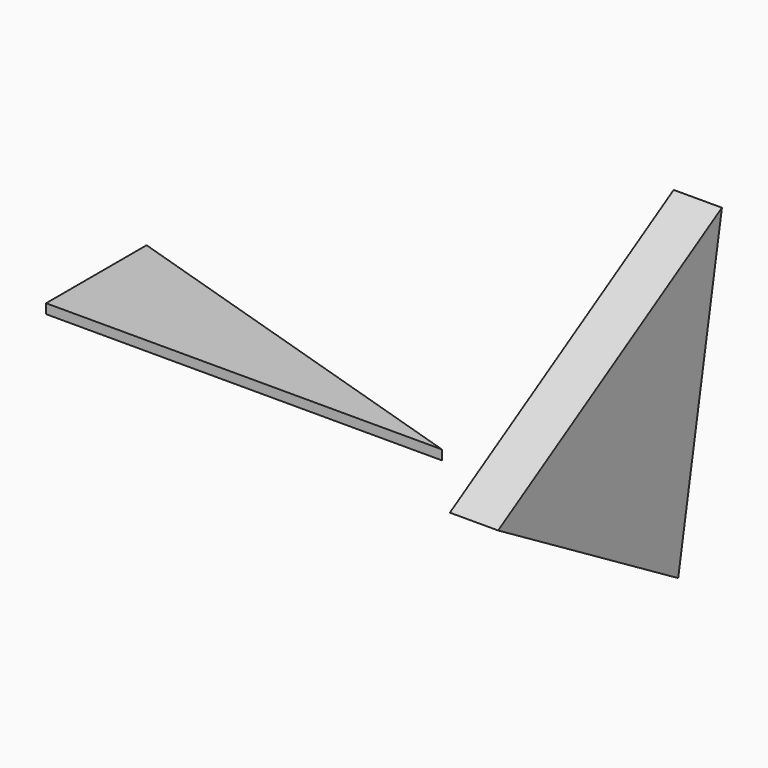
from build123d import *

# Parameters (mm, degrees)
F1_DEPTH = 2
F3_DEPTH = 10


with BuildPart() as f1:
    # F0 (on Top) → F1 (new body)
    with BuildSketch(Plane.XY):
        Polygon((-107.731834, 11.837703), (-107.731834, 0), (-25.635146, 0), (-107.731834, 26.0476), align=None)
    extrude(amount=F1_DEPTH)


with BuildPart() as f3:
    # F2 (on Right) → F3 (new body)
    with BuildSketch(Plane.YZ):
        Polygon((16.66875, -16.66875), (28.003501, 46.339124), (-30.003751, 11.001376), align=None)
    extrude(amount=F3_DEPTH)


solid = Compound([f1.part, f3.part])
